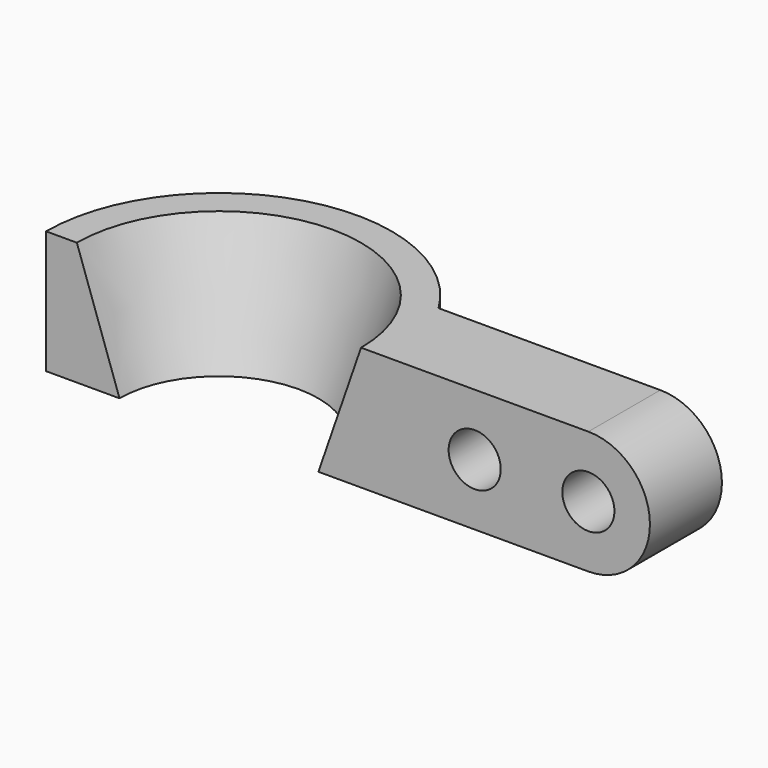
from build123d import *

# Parameters (mm, degrees)
F1_ANGLE = 180
F3_DEPTH = 38
F4_R     = 11
F5_DEPTH = 117


with BuildPart() as f1:
    # F0 (on Front) → F1 (revolve)
    with BuildSketch(Plane.XZ):
        Polygon((-60, 52), (-73, 52), (-73, 0), (-42, 0), align=None)
    revolve(axis=Axis((0, 0, 37.335005), (0, 0, -1)), revolution_arc=F1_ANGLE)

    # F2 (on Front) → F3 (join)
    with BuildSketch(Plane.XZ):
        with BuildLine():
            ThreePointArc((156, 0), (182, 26), (156, 52))
            Line((156, 52), (60, 52))
            Line((60, 52), (42, 0))
            Line((42, 0), (156, 0))
        make_face()
    extrude(amount=-F3_DEPTH)

    # F4 (on face) → F5 (cut)
    with BuildSketch(Plane.XZ):
        with Locations((156, 26)):
            Circle(F4_R)
        with Locations((108, 26)):
            Circle(F4_R)
    extrude(amount=-F5_DEPTH, mode=Mode.SUBTRACT)


solid = f1.part
